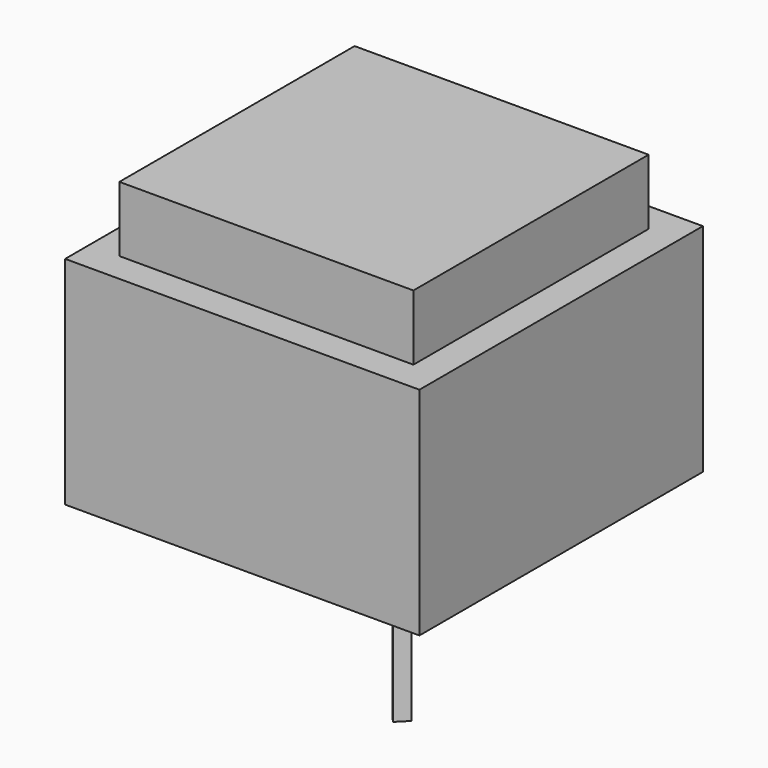
from build123d import *

# Parameters (mm, degrees)
F0_W     = 12.3952
F0_H     = 12.3952
F0_W_2   = 10.287
F0_H_2   = 10.287
F1_DEPTH = 7.5692
F2_DEPTH = 2.286
F4_DEPTH = 4.826


with BuildPart() as f1:
    # F0 (on Top) → F1 (new body)
    with BuildSketch(Plane.XY):
        with Locations((0.247709, -1.915304)):
            Rectangle(F0_W, F0_H)
        with Locations((0.247709, -1.915304)):
            Rectangle(F0_W_2, F0_H_2, mode=Mode.SUBTRACT)
        with Locations((0.247709, -1.915304)):
            Rectangle(F0_W_2, F0_H_2)
    extrude(amount=-F1_DEPTH)

    # F0 (on Top) → F2 (join)
    with BuildSketch(Plane.XY):
        with Locations((0.247709, -1.915304)):
            Rectangle(F0_W_2, F0_H_2)
    extrude(amount=F2_DEPTH)

    # F3 (on face) → F4 (join)
    with BuildSketch(Plane(origin=(0, 0, -7.5692), x_dir=(1, 0, 0), z_dir=(0, 0, -1))):
        Polygon((-4.40624, -2.594961), (-4.334398, -2.666803), (-4.171967, -2.504372), (-4.243809, -2.43253), align=None)
        Polygon((-4.171967, -2.504372), (-4.334398, -2.666803), (-4.262556, -2.738645), (-4.100125, -2.576214), align=None)
        Polygon((-4.171967, -2.504372), (-4.100125, -2.576214), (-3.903345, -2.379435), (-3.975187, -2.307593), align=None)
        Polygon((-4.047029, -2.23575), (-4.243809, -2.43253), (-4.171967, -2.504372), (-3.975187, -2.307593), align=None)
        Polygon((3.467957, 5.135552), (3.288352, 5.315157), (3.144668, 5.171473), (3.324273, 4.991868), align=None)
        Polygon((3.503878, 4.812263), (3.647562, 4.955947), (3.467957, 5.135552), (3.324273, 4.991868), align=None)
    extrude(amount=F4_DEPTH)


solid = f1.part
